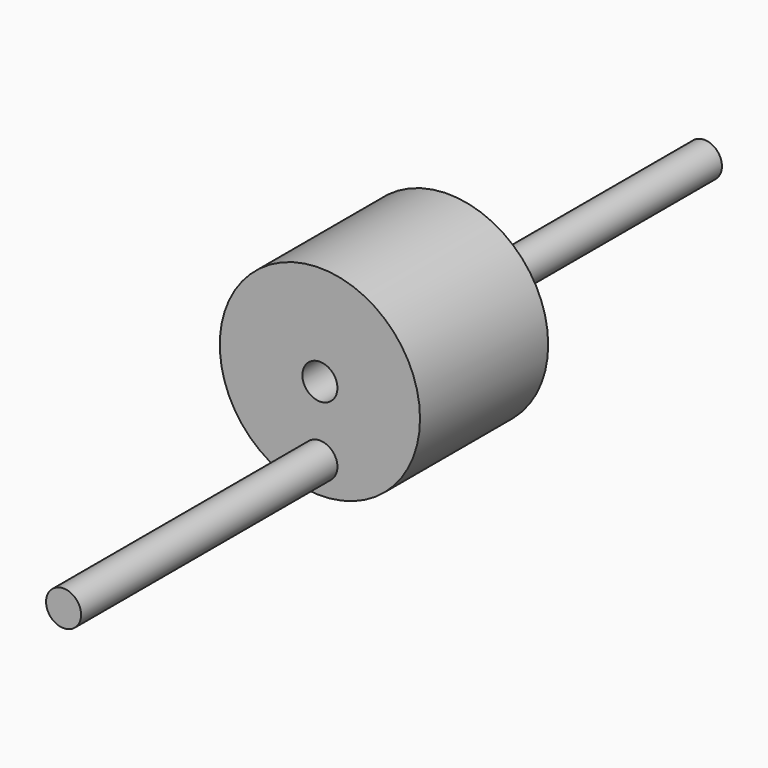
from build123d import *

# Parameters (mm, degrees)
F0_R     = 5
F0_R_2   = 0.875
F1_DEPTH = 4
F2_DEPTH = 20
F3_DEPTH = 20


with BuildPart() as f1:
    # F0 (on Front) → F1 (new body, symmetric)
    with BuildSketch(Plane.XZ):
        Circle(F0_R)
        with Locations((0, -3.461845)):
            Circle(F0_R_2, mode=Mode.SUBTRACT)
        Circle(F0_R_2, mode=Mode.SUBTRACT)
    extrude(amount=F1_DEPTH, both=True)

    # F0 (on Front) → F2 (join)
    with BuildSketch(Plane.XZ):
        Circle(F0_R_2)
    extrude(amount=-F2_DEPTH)

    # F0 (on Front) → F3 (join)
    with BuildSketch(Plane.XZ):
        with Locations((0, -3.461845)):
            Circle(F0_R_2)
    extrude(amount=F3_DEPTH)


solid = f1.part
